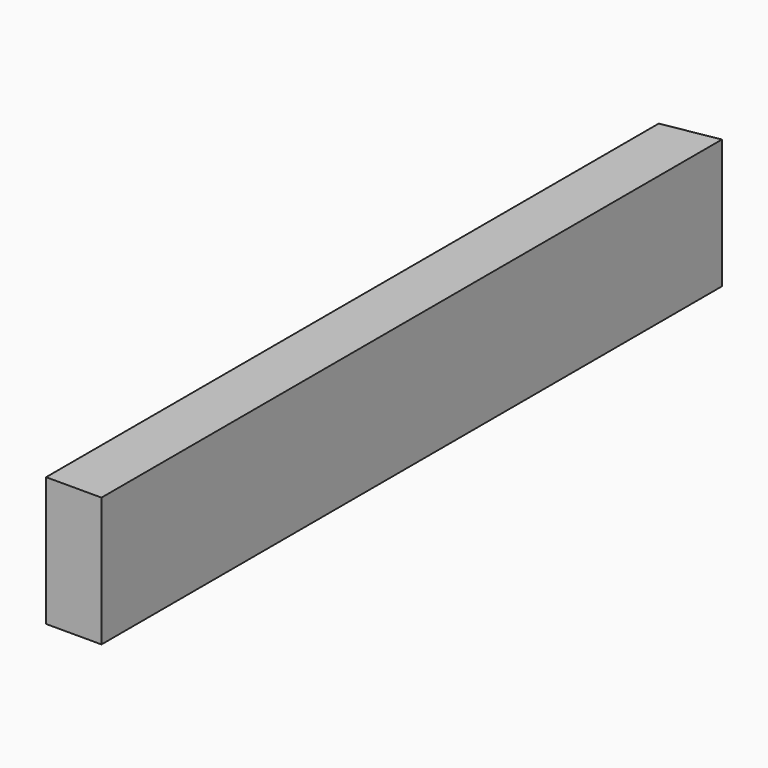
from build123d import *

# Parameters (mm, degrees)
F0_W     = 38.1
F0_H     = 88.9
F1_DEPTH = 533.4
F3_DEPTH = 88.901


with BuildPart() as f1:
    # F0 (on Front) → F1 (new body)
    with BuildSketch(Plane.XZ):
        Rectangle(F0_W, F0_H)
    extrude(amount=-F1_DEPTH)

    # F2 (on face) → F3 (cut, through all)
    with BuildSketch(Plane.XY.offset(44.45)):
        Polygon((-19.05, 526.681942), (19.05, 533.4), (-19.05, 533.4), align=None)
    extrude(amount=-F3_DEPTH, mode=Mode.SUBTRACT)


solid = f1.part
